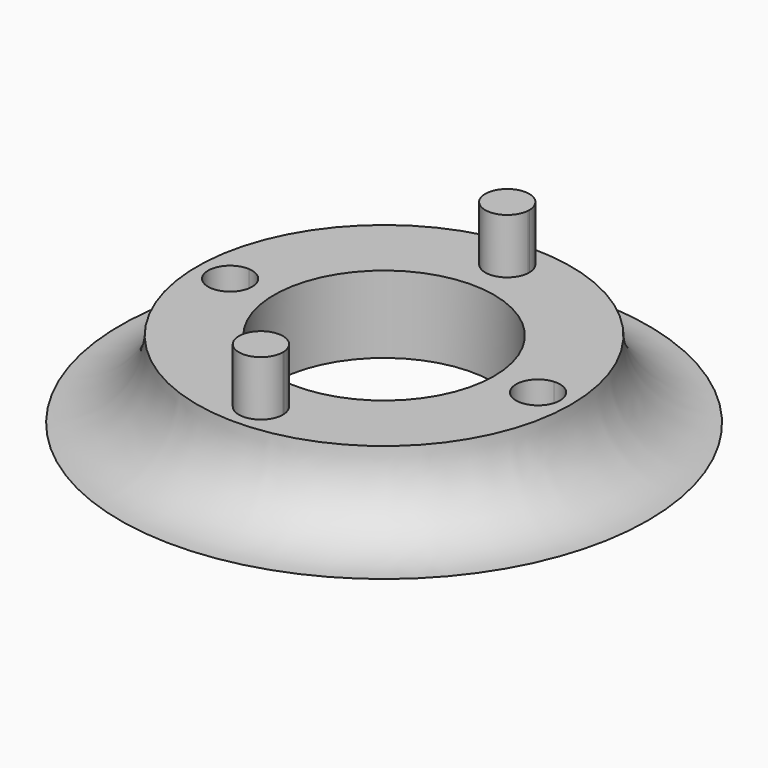
from build123d import *

# Parameters (mm, degrees)
F3_DEPTH = 2.5
F4_DEPTH = 5


with BuildPart() as f1:
    # F0 (on Front) → F1 (revolve)
    with BuildSketch(Plane.XZ):
        with BuildLine():
            Line((8.5, 0), (5, 0))
            Line((5, 0), (5, -3.5))
            Line((5, -3.5), (12, -3.5))
            ThreePointArc((12, -3.5), (9.5251262658, -2.4748737342), (8.5, 0))
        make_face()
    revolve(axis=Axis((0, 0, 10.7058882713), (0, 0, 1)))

    # F2 (on face) → F3 (cut)
    with BuildSketch(Plane.XY):
        with BuildLine():
            ThreePointArc((1, 7), (-0.0357371137, 7.9993612253), (-0.9974457174, 6.9285714286))
            ThreePointArc((-0.9974457174, 6.9285714286), (0, 6), (0.9974457174, 6.9285714286))
            ThreePointArc((0.9974457174, 6.9285714286), (0.9993612253, 6.9642628863), (1, 7))
        make_face()
        with BuildLine():
            ThreePointArc((-6, 0), (-6.2680749453, 0.6813851439), (-6.9285714286, 0.9974457174))
            ThreePointArc((-6.9285714286, 0.9974457174), (-8, 0), (-6.9285714286, -0.9974457174))
            ThreePointArc((-6.9285714286, -0.9974457174), (-6.2680749453, -0.6813851439), (-6, 0))
        make_face()
        with BuildLine():
            ThreePointArc((0.9974457174, -6.9285714286), (0, -6), (-0.9974457174, -6.9285714286))
            ThreePointArc((-0.9974457174, -6.9285714286), (-0.0357371137, -7.9993612253), (1, -7))
            ThreePointArc((1, -7), (0.9993612253, -6.9642628863), (0.9974457174, -6.9285714286))
        make_face()
        with BuildLine():
            ThreePointArc((8, 0), (7.6813851439, 0.7319250547), (6.9285714286, 0.9974457174))
            ThreePointArc((6.9285714286, 0.9974457174), (6, 0), (6.9285714286, -0.9974457174))
            ThreePointArc((6.9285714286, -0.9974457174), (7.6813851439, -0.7319250547), (8, 0))
        make_face()
    extrude(amount=-F3_DEPTH, mode=Mode.SUBTRACT)

    # F4 (add): faces of the model
    f4_faces = [f1.faces().sort_by_distance(p)[0] for p in [
        (0, 7, -2.5),
        (0, -7, -2.5),
    ]]
    extrude(f4_faces, amount=F4_DEPTH)


solid = f1.part
